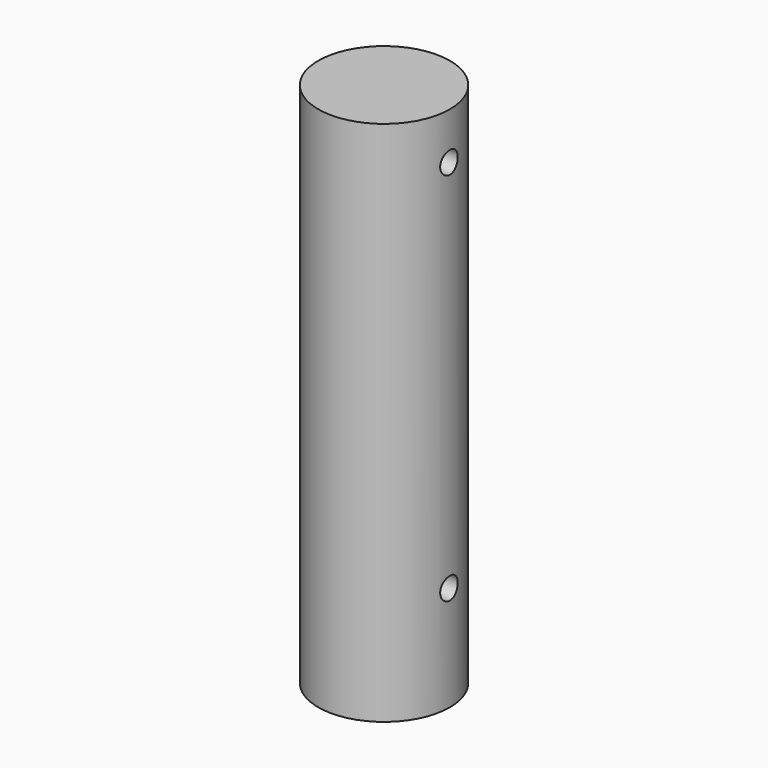
from build123d import *

# Parameters (mm, degrees)
F0_R     = 19.05
F1_DEPTH = 76.2
F2_R     = 3.175
F3_DEPTH = 38.1


with BuildPart() as f1:
    # F0 (on Top) → F1 (new body, symmetric)
    with BuildSketch(Plane.XY):
        Circle(F0_R)
    extrude(amount=F1_DEPTH, both=True)

    # F2 (on Right) → F3 (cut, symmetric)
    with BuildSketch(Plane.YZ):
        with Locations((0, 62.686368)):
            Circle(F2_R)
        with Locations((0, -45.833677)):
            Circle(F2_R)
    extrude(amount=F3_DEPTH, both=True, mode=Mode.SUBTRACT)


solid = f1.part
